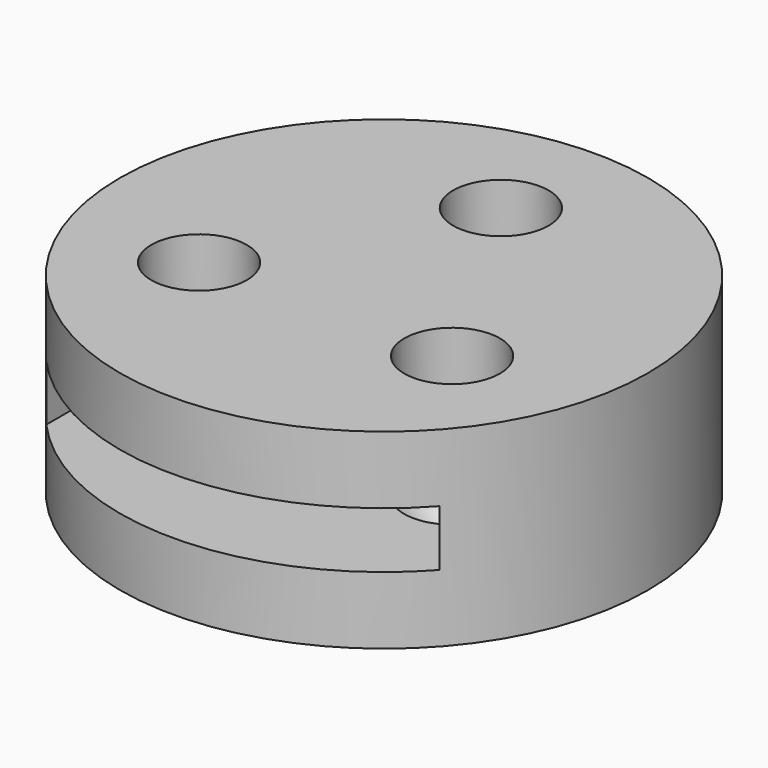
from build123d import *

# Parameters (mm, degrees)
F0_R     = 23.5
F1_DEPTH = 17
F2_W     = 35
F2_H     = 5
F3_DEPTH = 28.6
F4_R     = 1.875
F5_DEPTH = 17.001
F6_R     = 4.25
F7_DEPTH = 14.25
F8_SIZE  = 2


with BuildPart() as f1:
    # F0 (on Top) → F1 (new body)
    with BuildSketch(Plane.XY):
        Circle(F0_R)
    extrude(amount=F1_DEPTH)

    # F2 (on Front) → F3 (cut, symmetric)
    with BuildSketch(Plane.XZ):
        with Locations((0, 8.5)):
            Rectangle(F2_W, F2_H)
    extrude(amount=F3_DEPTH, both=True, mode=Mode.SUBTRACT)

    # F4 (on face) → F5 (cut, through all)
    with BuildSketch(Plane.XY.offset(17)):
        with Locations((0, 13)):
            Circle(F4_R)
        with Locations((-11.25833, -6.5)):
            Circle(F4_R)
        with Locations((11.25833, -6.5)):
            Circle(F4_R)
    extrude(amount=-F5_DEPTH, mode=Mode.SUBTRACT)

    # F6 (on face) → F7 (cut)
    with BuildSketch(Plane.XY.offset(17)):
        with Locations((0, 13)):
            Circle(F6_R)
        with Locations((-11.25833, -6.5)):
            Circle(F6_R)
        with Locations((11.25833, -6.5)):
            Circle(F6_R)
    extrude(amount=-F7_DEPTH, mode=Mode.SUBTRACT)

    # F8
    f8_edges = [f1.edges().sort_by_distance(p)[0] for p in [
        (-15.50833, -6.5, 2.75),
        (7.00833, -6.5, 2.75),
        (-4.25, 13, 2.75),
    ]]
    chamfer(f8_edges, length=F8_SIZE)


solid = f1.part
